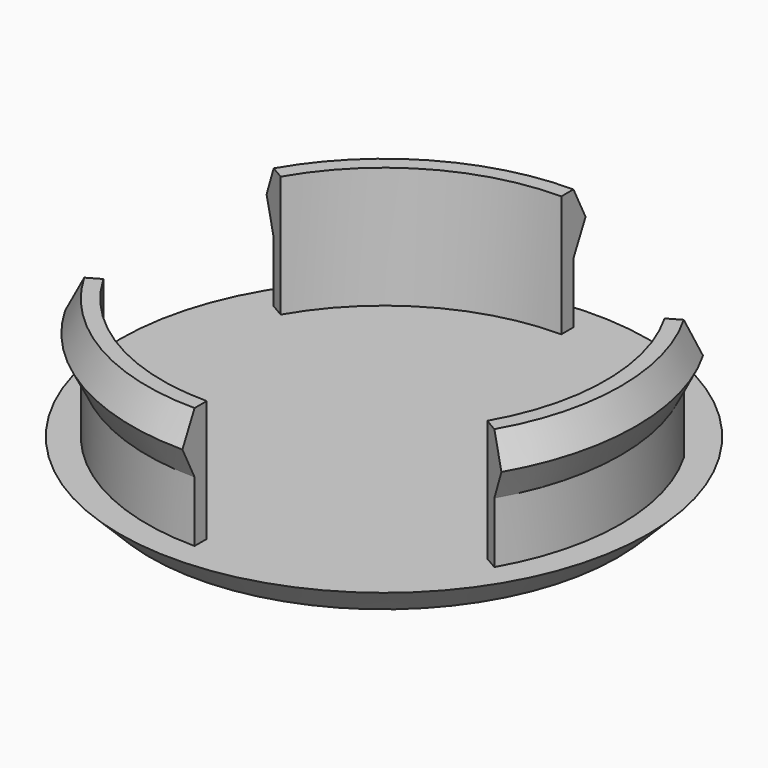
from build123d import *

# Parameters (mm, degrees)
F3_DEPTH = 8.001


with BuildPart() as f1:
    # F0 (on Front) → F1 (revolve)
    with BuildSketch(Plane.XZ):
        Polygon((0, 2), (0, 0), (15.4, 0), (15.4, 2), (14.6, 2), align=None)
        Polygon((15.4, 2), (15.4, 0), (17.4, 2), (15.6, 2), align=None)
        Polygon((14.6, 2), (15.4, 2), (15.6, 2), (15.6, 6), (15.6, 10), (14.6, 10), align=None)
        Polygon((15.6, 10), (15.6, 6), (16.6, 8), align=None)
    revolve(axis=Axis((0, 0, 1), (0, 0, 1)))

    # F2 (on face) → F3 (cut, through all)
    with BuildSketch(Plane.XY.offset(2)):
        with BuildLine():
            Line((0, 19), (0, 0))
            Line((0, 0), (16.454483, 9.5))
            ThreePointArc((16.454483, 9.5), (9.5, 16.454483), (0, 19))
        make_face()
        with BuildLine():
            Line((-16.454483, -9.5), (0, 0))
            Line((0, 0), (-16.454483, 9.5))
            ThreePointArc((-16.454483, 9.5), (-19, 0), (-16.454483, -9.5))
        make_face()
        with BuildLine():
            Line((16.454483, -9.5), (0, 0))
            Line((0, 0), (0, -19))
            ThreePointArc((0, -19), (9.5, -16.454483), (16.454483, -9.5))
        make_face()
    extrude(amount=F3_DEPTH, mode=Mode.SUBTRACT)


solid = f1.part
